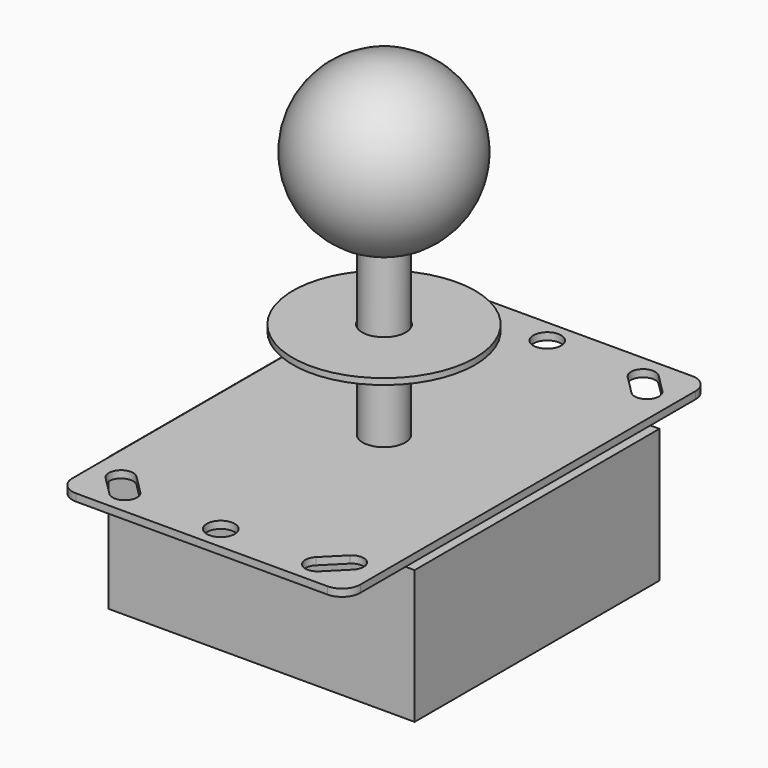
from build123d import *

# Parameters (mm, degrees)
F0_W      = 60.198
F0_H      = 95.25
F1_DEPTH  = 1.524
F2_W      = 64.008
F2_H      = 64.008
F3_DEPTH  = 27.94
F4_R      = 5.588
F5_DEPTH  = 35.814
F8_R      = 2.921
F9_DEPTH  = 37.339
F10_R     = 3.81
F12_R     = 19.05
F12_R_2   = 4.572
F13_DEPTH = 1.27
F14_W     = 14.732
F14_H     = 5.588
F15_DEPTH = 8.128


with BuildPart() as f1:
    # F0 (on Top) → F1 (new body)
    with BuildSketch(Plane.XY):
        Rectangle(F0_W, F0_H)
    extrude(amount=-F1_DEPTH)

    # F2 (on face) → F3 (join)
    with BuildSketch(Plane(origin=(0, 0, -1.524), x_dir=(1, 0, 0), z_dir=(0, 0, -1))):
        Rectangle(F2_W, F2_H)
    extrude(amount=F3_DEPTH)

    # F4 (on face) → F5 (join)
    with BuildSketch(Plane(origin=(0, 0, -1.524), x_dir=(1, 0, 0), z_dir=(0, 0, -1))):
        Circle(F4_R)
    extrude(amount=F5_DEPTH)

    # F6 (on Front) → F7 (revolve)
    with BuildSketch(Plane.XZ):
        with BuildLine():
            Line((0, 0), (0, 69.342))
            ThreePointArc((0, 69.342), (-17.125941, 54.311455), (-4.445, 35.379765))
            Line((-4.445, 35.379765), (-4.445, 0))
            Line((-4.445, 0), (0, 0))
        make_face()
    revolve(axis=Axis((0, 0, 34.671), (0, 0, -1)))

    # F8 (on face) → F9 (cut, through all)
    with BuildSketch(Plane.XY):
        with BuildLine():
            ThreePointArc((25.889564, -40.404051), (25.889564, -36.811949), (22.297461, -36.811949))
            Line((22.297461, -36.811949), (18.346149, -40.763261))
            ThreePointArc((18.346149, -40.763261), (18.346149, -44.355364), (21.938251, -44.355364))
            Line((21.938251, -44.355364), (25.889564, -40.404051))
        make_face()
        with BuildLine():
            Line((-18.346149, -40.763261), (-22.297461, -36.811949))
            ThreePointArc((-22.297461, -36.811949), (-25.889564, -36.811949), (-25.889564, -40.404051))
            Line((-25.889564, -40.404051), (-21.938251, -44.355364))
            ThreePointArc((-21.938251, -44.355364), (-18.346149, -44.355364), (-18.346149, -40.763261))
        make_face()
        with BuildLine():
            ThreePointArc((-18.346149, 40.763261), (-18.346149, 44.355364), (-21.938251, 44.355364))
            Line((-21.938251, 44.355364), (-25.889564, 40.404051))
            ThreePointArc((-25.889564, 40.404051), (-25.889564, 36.811949), (-22.297461, 36.811949))
            Line((-22.297461, 36.811949), (-18.346149, 40.763261))
        make_face()
        with BuildLine():
            Line((25.889564, 40.404051), (21.938251, 44.355364))
            ThreePointArc((21.938251, 44.355364), (18.346149, 44.355364), (18.346149, 40.763261))
            Line((18.346149, 40.763261), (22.297461, 36.811949))
            ThreePointArc((22.297461, 36.811949), (25.889564, 36.811949), (25.889564, 40.404051))
        make_face()
        with Locations((0, -42.672)):
            Circle(F8_R)
        with Locations((0, 42.672)):
            Circle(F8_R)
    extrude(amount=-F9_DEPTH, mode=Mode.SUBTRACT)

    # F10
    f10_edges = [f1.edges().sort_by_distance(p)[0] for p in [
        (30.099, -47.625, -0.762),
        (-30.099, -47.625, -0.762),
        (-30.099, 47.625, -0.762),
        (30.099, 47.625, -0.762),
    ]]
    fillet(f10_edges, radius=F10_R)

    # F14 (on face) → F15 (join)
    with BuildSketch(Plane(origin=(-32.004, 0, 0), x_dir=(0, -1, 0), z_dir=(-1, 0, 0))):
        with Locations((-19.177, -16.51)):
            Rectangle(F14_W, F14_H)
    extrude(amount=F15_DEPTH)


with BuildPart() as f13:
    # F12 (on offset) → F13 (new body)
    with BuildSketch(Plane.XY.offset(19.05)):
        Circle(F12_R)
        Circle(F12_R_2, mode=Mode.SUBTRACT)
    extrude(amount=F13_DEPTH)


solid = Compound([f1.part, f13.part])
